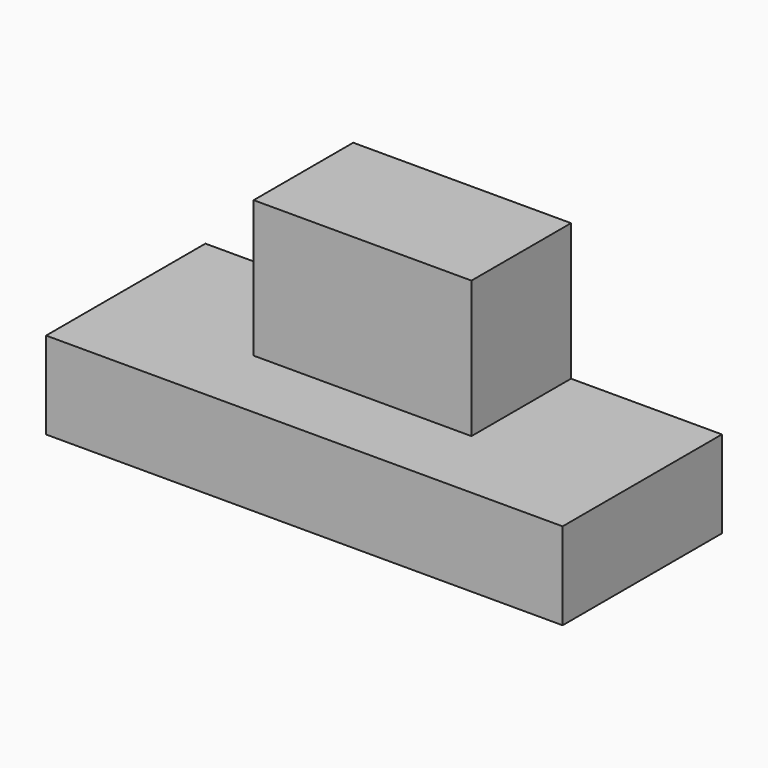
from build123d import *

# Parameters (mm, degrees)
F0_W     = 131.7625
F0_H     = 50.8
F1_DEPTH = 22.225
F3_DEPTH = 34.925


with BuildPart() as f1:
    # F0 (on Top) → F1 (new body)
    with BuildSketch(Plane.XY):
        with Locations((65.88125, -25.4)):
            Rectangle(F0_W, F0_H)
    extrude(amount=F1_DEPTH)

    # F2 (on face) → F3 (join)
    with BuildSketch(Plane.XY.offset(22.225)):
        Polygon((93.271066, 0), (37.708566, 0), (37.708566, -25.4), (37.708566, -31.75), (93.271066, -31.75), align=None)
    extrude(amount=F3_DEPTH)


solid = f1.part
